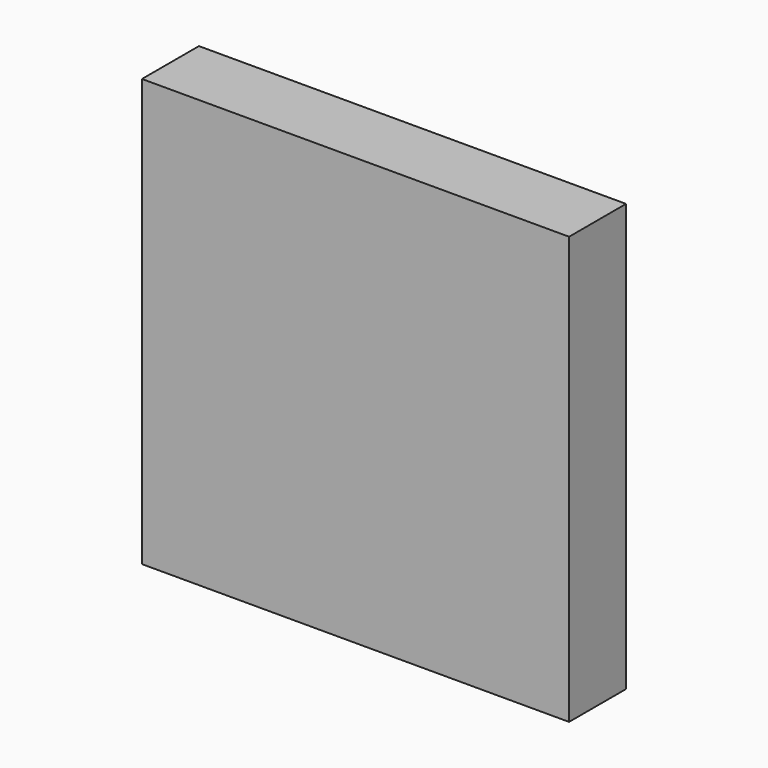
from build123d import *

# Parameters (mm, degrees)
F4_W     = 914.4
F4_H     = 914.4
F5_DEPTH = 76.2


with BuildPart() as f5:
    # F4 (on Front) → F5 (new body, symmetric)
    with BuildSketch(Plane.XZ):
        Rectangle(F4_W, F4_H)
    extrude(amount=F5_DEPTH, both=True)


with BuildPart() as f5_1:
    # F6: moved
    add(f5.part)


with BuildPart() as f5_2:
    # F7: moved
    add(f5_1.part)


solid = f5_2.part
